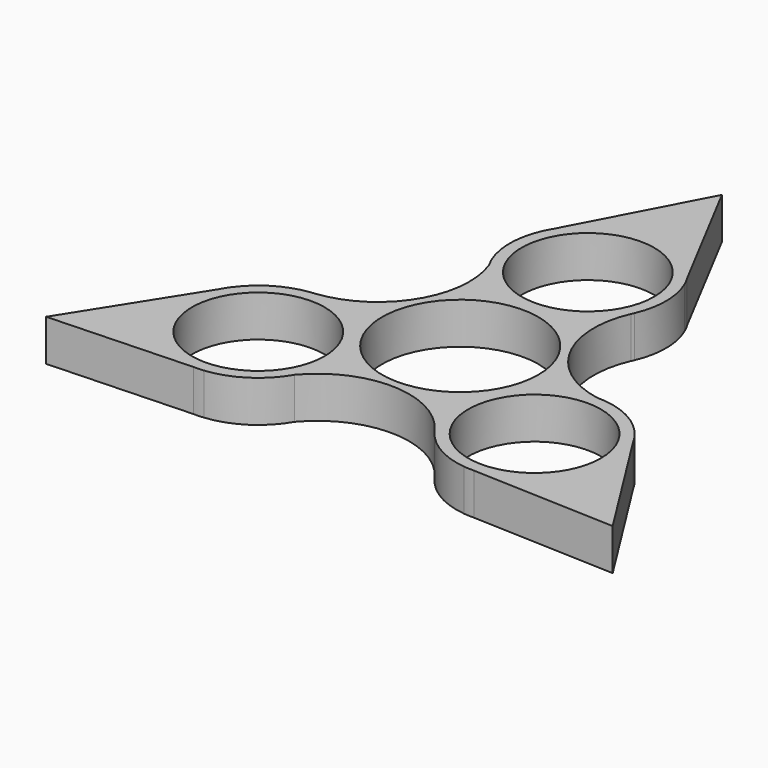
from build123d import *

# Parameters (mm, degrees)
F0_R     = 11.2
F0_R_2   = 13.2
F1_DEPTH = 7


with BuildPart() as f1:
    # F0 (on Top) → F1 (new body)
    with BuildSketch(Plane.XY):
        with BuildLine():
            ThreePointArc((12.100793, 21.66292), (11.990187, 21.427431), (11.883555, 21.190116))
            ThreePointArc((11.883555, 21.190116), (11.994504, 21.425448), (12.100793, 21.66292))
        make_face()
        with BuildLine():
            ThreePointArc((23.327707, -0.268258), (12.397461, 7.683314), (11.883555, 21.190116))
            ThreePointArc((11.883555, 21.190116), (11.990187, 21.427431), (12.100793, 21.66292))
            ThreePointArc((12.100793, 21.66292), (13.199904, 26.986831), (12.060238, 32.302209))
            Line((12.060238, 32.302209), (11.254453, 33.834145))
            ThreePointArc((11.254453, 33.834145), (0, 40.136516), (-11.254453, 33.834145))
            Line((-11.254453, 33.834145), (-12.060238, 32.302209))
            ThreePointArc((-12.060238, 32.302209), (-13.181817, 26.243916), (-11.431535, 20.336516))
            ThreePointArc((-11.431535, 20.336516), (-12.852676, 6.894859), (-24.292957, -0.303597))
            ThreePointArc((-24.292957, -0.303597), (-24.551793, -0.329909), (-24.811035, -0.351866))
            ThreePointArc((-24.811035, -0.351866), (-29.971233, -2.061963), (-34.004652, -5.706632))
            Line((-34.004652, -5.706632), (-34.928456, -7.17043))
            ThreePointArc((-34.928456, -7.17043), (-34.759243, -20.068258), (-23.674002, -26.663715))
            Line((-23.674002, -26.663715), (-21.944414, -26.595577))
            ThreePointArc((-21.944414, -26.595577), (-16.136989, -24.537746), (-11.896172, -20.068258))
            ThreePointArc((-11.896172, -20.068258), (0.455215, -14.578173), (12.409401, -20.886519))
            ThreePointArc((12.409401, -20.886519), (12.561606, -21.097522), (12.710243, -21.311054))
            ThreePointArc((12.710243, -21.311054), (16.771329, -24.924868), (21.944414, -26.595577))
            Line((21.944414, -26.595577), (23.674002, -26.663715))
            ThreePointArc((23.674002, -26.663715), (34.759243, -20.068258), (34.928456, -7.17043))
            Line((34.928456, -7.17043), (34.004652, -5.706632))
            ThreePointArc((34.004652, -5.706632), (29.318806, -1.706169), (23.327707, -0.268258))
        make_face()
        with Locations((-23.327707, -13.468258)):
            Circle(F0_R, mode=Mode.SUBTRACT)
        with Locations((23.327707, -13.468258)):
            Circle(F0_R, mode=Mode.SUBTRACT)
        Circle(F0_R_2, mode=Mode.SUBTRACT)
        with Locations((0, 26.936516)):
            Circle(F0_R, mode=Mode.SUBTRACT)
        with BuildLine():
            Line((11.254453, 33.834145), (12.060238, 32.302209))
            ThreePointArc((12.060238, 32.302209), (11.682483, 33.081399), (11.254453, 33.834145))
        make_face()
        with BuildLine():
            ThreePointArc((34.928456, -7.17043), (34.490574, -6.423372), (34.004652, -5.706632))
            Line((34.004652, -5.706632), (34.928456, -7.17043))
        make_face()
        with BuildLine():
            ThreePointArc((-11.254453, 33.834145), (0, 40.136516), (11.254453, 33.834145))
            Line((11.254453, 33.834145), (0, 55.230804))
            Line((0, 55.230804), (-11.254453, 33.834145))
        make_face()
        with BuildLine():
            Line((47.831279, -27.615402), (34.928456, -7.17043))
            ThreePointArc((34.928456, -7.17043), (34.759243, -20.068258), (23.674002, -26.663715))
            Line((23.674002, -26.663715), (47.831279, -27.615402))
        make_face()
        with BuildLine():
            Line((-12.060238, 32.302209), (-11.254453, 33.834145))
            ThreePointArc((-11.254453, 33.834145), (-11.682483, 33.081399), (-12.060238, 32.302209))
        make_face()
        with BuildLine():
            ThreePointArc((21.944414, -26.595577), (22.80809, -26.658027), (23.674002, -26.663715))
            Line((23.674002, -26.663715), (21.944414, -26.595577))
        make_face()
        with BuildLine():
            ThreePointArc((12.409401, -20.886519), (12.55773, -21.100269), (12.710243, -21.311054))
            ThreePointArc((12.710243, -21.311054), (12.561606, -21.097522), (12.409401, -20.886519))
        make_face()
        with BuildLine():
            ThreePointArc((-24.811035, -0.351866), (-24.551793, -0.329909), (-24.292957, -0.303597))
            ThreePointArc((-24.292957, -0.303597), (-24.552234, -0.325179), (-24.811035, -0.351866))
        make_face()
        with BuildLine():
            Line((-34.928456, -7.17043), (-34.004652, -5.706632))
            ThreePointArc((-34.004652, -5.706632), (-34.490574, -6.423372), (-34.928456, -7.17043))
        make_face()
        with BuildLine():
            ThreePointArc((-23.674002, -26.663715), (-22.80809, -26.658027), (-21.944414, -26.595577))
            Line((-21.944414, -26.595577), (-23.674002, -26.663715))
        make_face()
        with BuildLine():
            ThreePointArc((-23.674002, -26.663715), (-34.759243, -20.068258), (-34.928456, -7.17043))
            Line((-34.928456, -7.17043), (-47.831279, -27.615402))
            Line((-47.831279, -27.615402), (-23.674002, -26.663715))
        make_face()
    extrude(amount=F1_DEPTH)


solid = f1.part
